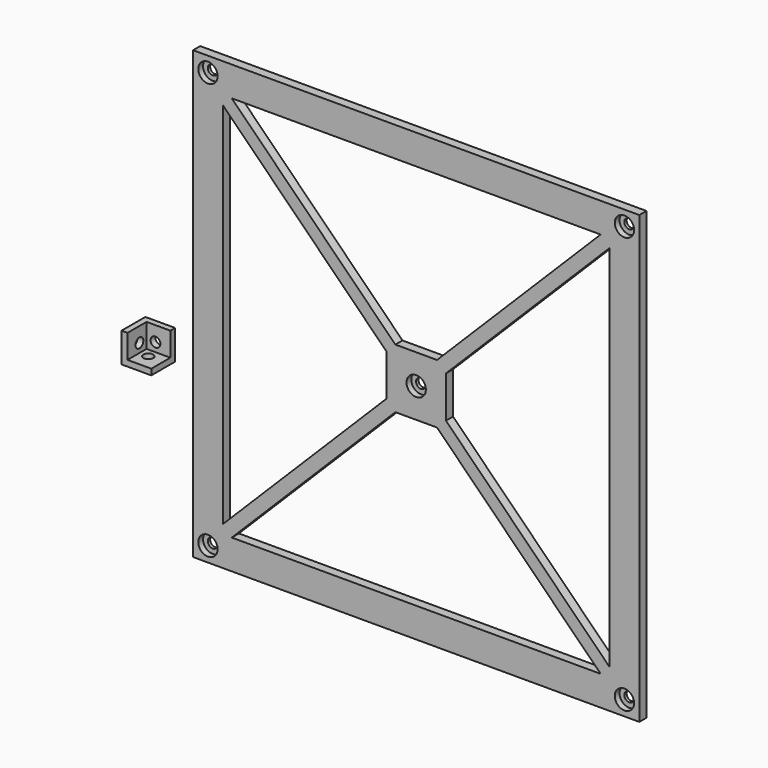
from build123d import *

# Parameters (mm, degrees)
F0_W           = 150
F0_H           = 150
F1_DEPTH       = 3
F3_D           = 3.3
F3_CBORE_D     = 6.5
F3_CBORE_DEPTH = 2
F4_W           = 10
F4_H           = 10
F5_DEPTH       = 10
F6_W           = 8
F6_H           = 8
F7_DEPTH       = 8
F11_D          = 3.3
F11_ON_F8_D    = 3.3
F11_ON_F9_D    = 3.3


with BuildPart() as f1:
    # F0 (on Front) → F1 (new body)
    with BuildSketch(Plane.XZ):
        Rectangle(F0_W, F0_H)
        Polygon((62, -65), (-62, -65), (-7, -10), (7, -10), align=None, mode=Mode.SUBTRACT)
        Polygon((-10, 7), (-10, -7), (-65, -62), (-65, 62), align=None, mode=Mode.SUBTRACT)
        Polygon((65, -62), (10, -7), (10, 7), (65, 62), align=None, mode=Mode.SUBTRACT)
        Polygon((-7, 10), (-62, 65), (62, 65), (7, 10), align=None, mode=Mode.SUBTRACT)
    extrude(amount=F1_DEPTH)

    # F3 (through all)
    with Locations(Plane.XZ.offset(3)):
        with Locations((0, 0), (-70, 70), (70, 70), (70, -70), (-70, -70)):
            CounterBoreHole(F3_D / 2, F3_CBORE_D / 2, F3_CBORE_DEPTH)


with BuildPart() as f5:
    # F4 (on Top) → F5 (new body)
    with BuildSketch(Plane.XY):
        with Locations((-63.0716755986, -36.7216779933)):
            Rectangle(F4_W, F4_H)
    extrude(amount=F5_DEPTH)

    # F6 (on face) → F7 (cut)
    with BuildSketch(Plane.XZ.offset(41.7216779933)):
        with Locations((-62.0716755986, 6)):
            Rectangle(F6_W, F6_H)
    extrude(amount=-F7_DEPTH, mode=Mode.SUBTRACT)

    # F11 (through all)
    with Locations(Plane(origin=(0, -31.7216779933, 0), x_dir=(-1, 0, 0), z_dir=(0, 1, 0))):
        with Locations((63.0716755986, 5)):
            Hole(F11_D / 2)

    # F11 on F8 (through all)
    with Locations(Plane(origin=(-68.0716755986, 0, 0), x_dir=(0, -1, 0), z_dir=(-1, 0, 0))):
        with Locations((36.7216779933, 5)):
            Hole(F11_ON_F8_D / 2)

    # F11 on F9 (through all)
    with Locations(Plane(origin=(0, 0, 0), x_dir=(1, 0, 0), z_dir=(0, 0, -1))):
        with Locations((-63.0716755986, 36.7216779933)):
            Hole(F11_ON_F9_D / 2)


solid = Compound([f1.part, f5.part])
